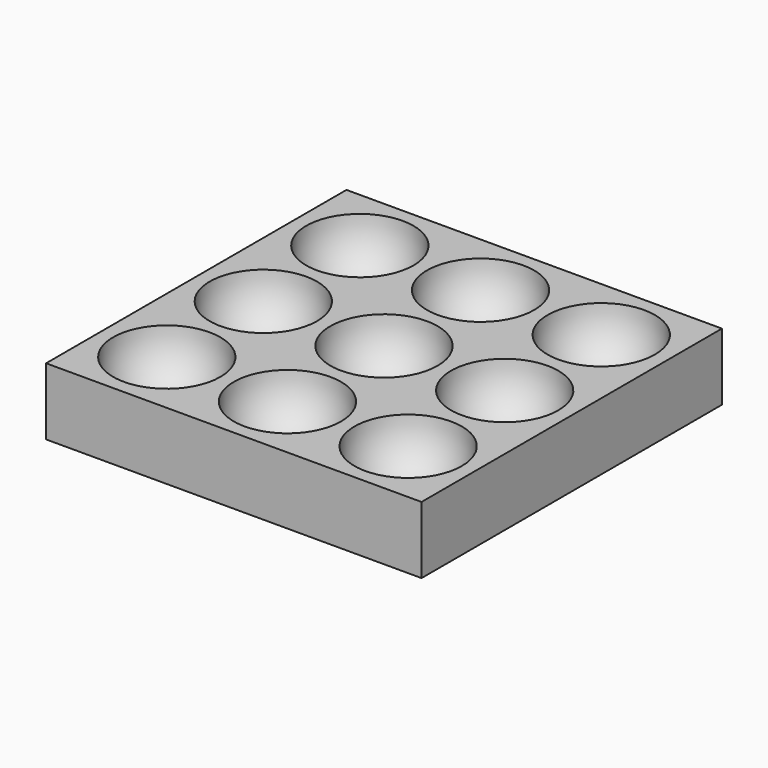
from build123d import *

# Parameters (mm, degrees)
ARRAY_X_COUNT = 3
ARRAY_X_PITCH = 18
ARRAY_Y_COUNT = 3
ARRAY_Y_PITCH = 18
BOX_W         = 56
BOX_H         = 56
BOX_DEPTH     = 10


with BuildPart() as array:
    # Sphere → Sphere (revolve)
    with BuildSketch(Plane.XZ):
        with BuildLine():
            ThreePointArc((0, -8), (8, 0), (0, 8))
            Line((0, 8), (0, -8))
        make_face()
    revolve(axis=Axis((0, 0, 0), (0, 0, 1)))

    # Array X: Array ×3


with BuildPart() as array_1:
    add(array.part)
    with Locations(*[(i * ARRAY_X_PITCH, 0, 0) for i in range(1, ARRAY_X_COUNT)]):
        add(array.part)

    # Array Y: Array ×3


with BuildPart() as array_2:
    add(array_1.part)
    with Locations(*[(0, i * ARRAY_Y_PITCH, 0) for i in range(1, ARRAY_Y_COUNT)]):
        add(array_1.part)


with BuildPart() as array_3:
    # Array placement: moved
    add(array_2.part.moved(Location((10, 10, 0))))


with BuildPart() as cut:
    # Box → Box (new body)
    with BuildSketch(Plane.XY.offset(-10)):
        with Locations((28, 28)):
            Rectangle(BOX_W, BOX_H)
    extrude(amount=BOX_DEPTH)

    # Cut: cut Array
    add(array_3.part, mode=Mode.SUBTRACT)


solid = cut.part
